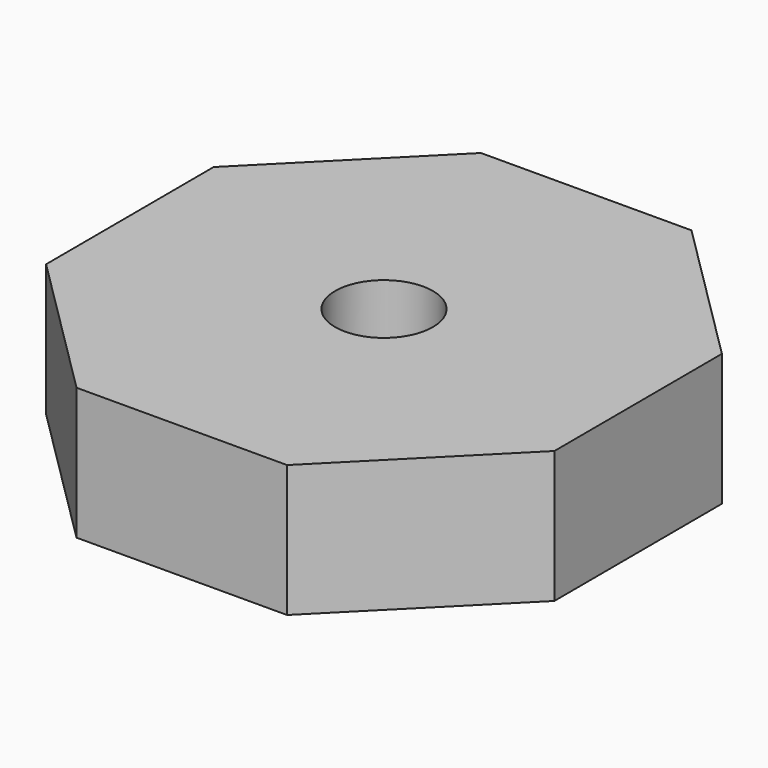
from build123d import *

# Parameters (mm, degrees)
F0_R     = 1000
F1_DEPTH = 2700


with BuildPart() as f1:
    # F0 (on Top) → F1 (new body)
    with BuildSketch(Plane.XY):
        Polygon((-5181.158397, -2162.574751), (-2134.460966, -5192.803508), (2162.574751, -5181.158397), (5192.803508, -2134.460966), (5181.158397, 2162.574751), (2134.460966, 5192.803508), (-2162.574751, 5181.158397), (-5192.803508, 2134.460966), align=None)
        Circle(F0_R, mode=Mode.SUBTRACT)
    extrude(amount=F1_DEPTH)


solid = f1.part
